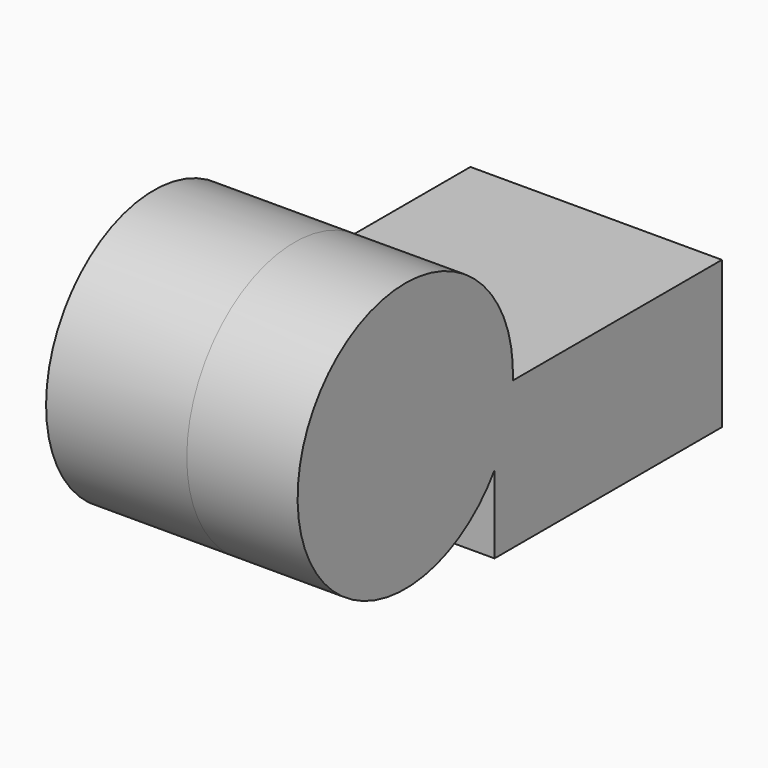
from build123d import *

# Parameters (mm, degrees)
F1_DEPTH = 32.258
F2_DEPTH = 25.4


with BuildPart() as f1:
    # F0 (on Right) → F1 (new body)
    with BuildSketch(Plane.YZ):
        with BuildLine():
            Line((-53.8954287767, 23.1309729153), (-53.8954287767, 39.082840085))
            Line((-53.8954287767, 39.082840085), (-48.635600546, 39.082840085))
            ThreePointArc((-48.635600546, 39.082840085), (-48.6143654126, 39.7434673959), (-48.6072859519, 40.4043979943))
            ThreePointArc((-48.6072859519, 40.4043979943), (-108.9664728047, 49.4367795808), (-53.8954287767, 23.1309729153))
        make_face()
        with BuildLine():
            Line((-48.635600546, 39.082840085), (-53.8954287767, 39.082840085))
            Line((-53.8954287767, 39.082840085), (-53.8954287767, 23.1309729153))
            ThreePointArc((-53.8954287767, 23.1309729153), (-50.1591715696, 30.74211067), (-48.635600546, 39.082840085))
        make_face()
        with BuildLine():
            Line((11.2668033689, 39.082840085), (-48.635600546, 39.082840085))
            ThreePointArc((-48.635600546, 39.082840085), (-50.1591715696, 30.74211067), (-53.8954287767, 23.1309729153))
            Line((-53.8954287767, 23.1309729153), (-53.8954287767, 5.313704256))
            Line((-53.8954287767, 5.313704256), (11.2668033689, 5.313704256))
            Line((11.2668033689, 5.313704256), (11.2668033689, 39.082840085))
        make_face()
    extrude(amount=F1_DEPTH)

    # F0 (on Right) + F1_face (on face) → F2 (join)
    with BuildSketch(Plane.YZ):
        with BuildLine():
            Line((-53.8954287767, 23.1309729153), (-53.8954287767, 39.082840085))
            Line((-53.8954287767, 39.082840085), (-48.635600546, 39.082840085))
            ThreePointArc((-48.635600546, 39.082840085), (-48.6143654126, 39.7434673959), (-48.6072859519, 40.4043979943))
            ThreePointArc((-48.6072859519, 40.4043979943), (-108.9664728047, 49.4367795808), (-53.8954287767, 23.1309729153))
        make_face()
    with BuildSketch(Plane(origin=(32.258, -54.8476507526, 32.6830552837), x_dir=(0, 1, 0), z_dir=(1, 0, 0))):
        with BuildLine():
            Line((0.9522219759, -9.5520823684), (0.9522219759, -27.3693510277))
            Line((0.9522219759, -27.3693510277), (66.1144541215, -27.3693510277))
            Line((66.1144541215, -27.3693510277), (66.1144541215, 6.3997848013))
            Line((66.1144541215, 6.3997848013), (6.2120502066, 6.3997848013))
            ThreePointArc((6.2120502066, 6.3997848013), (-53.918576862, 17.3836300349), (0.9522219759, -9.5520823684))
        make_face()
    extrude(amount=F2_DEPTH)


solid = f1.part
